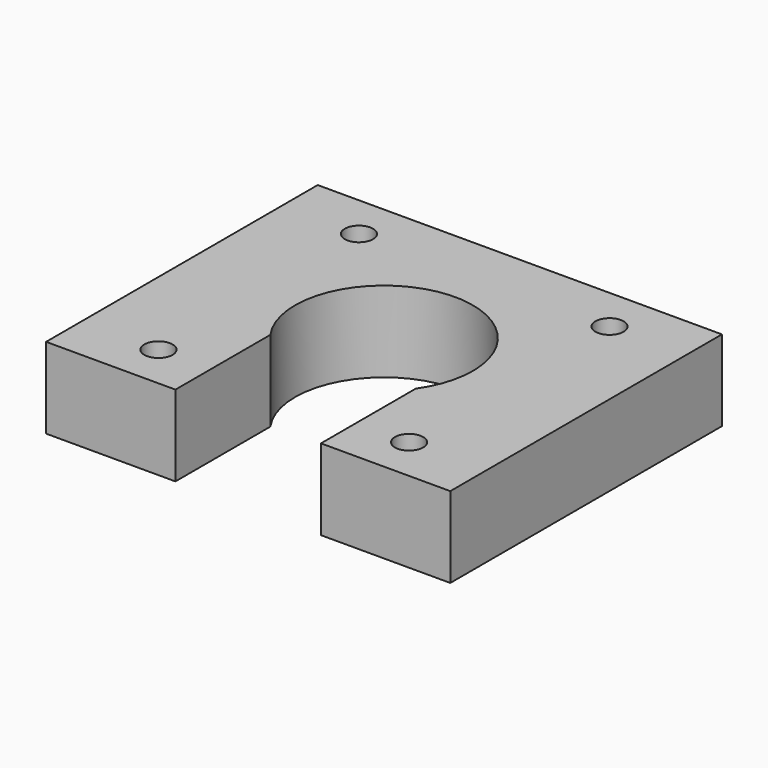
from build123d import *

# Parameters (mm, degrees)
F0_R     = 1.75
F1_DEPTH = 10


with BuildPart() as f1:
    # F0 (on Top) → F1 (new body)
    with BuildSketch(Plane.XY):
        with BuildLine():
            Line((25, 21), (-25, 21))
            Line((-25, 21), (-25, -21))
            Line((-25, -21), (-9, -21))
            Line((-9, -21), (-9, -6.324555))
            ThreePointArc((-9, -6.324555), (0, 11), (9, -6.324555))
            Line((9, -6.324555), (9, -21))
            Line((9, -21), (25, -21))
            Line((25, -21), (25, 21))
        make_face()
        with Locations((-15.5, -15.5)):
            Circle(F0_R, mode=Mode.SUBTRACT)
        with Locations((15.5, -15.5)):
            Circle(F0_R, mode=Mode.SUBTRACT)
        with Locations((-15.5, 15.5)):
            Circle(F0_R, mode=Mode.SUBTRACT)
        with Locations((15.5, 15.5)):
            Circle(F0_R, mode=Mode.SUBTRACT)
    extrude(amount=F1_DEPTH)


solid = f1.part
